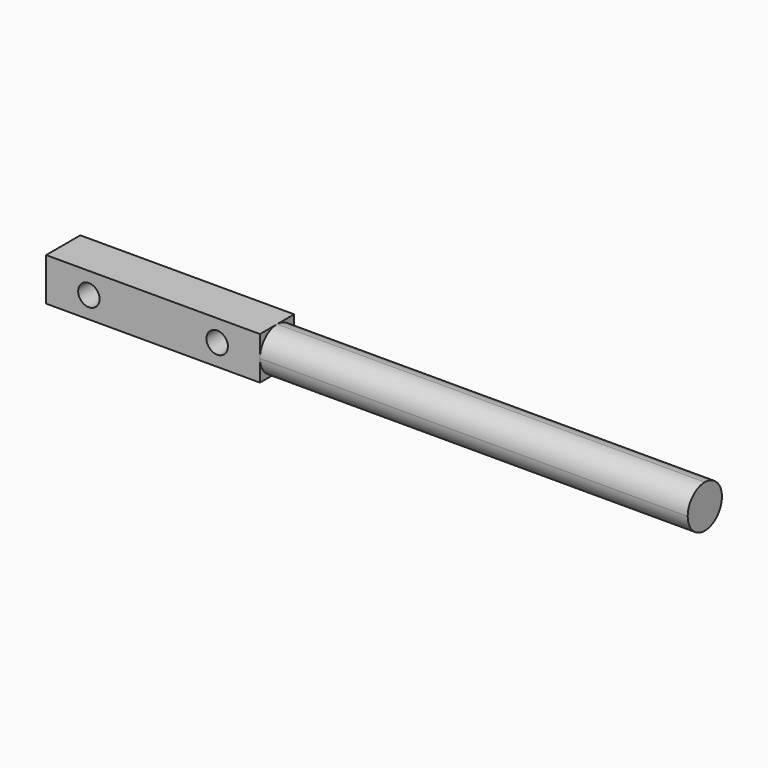
from build123d import *

# Parameters (mm, degrees)
F0_W     = 5
F0_H     = 5
F1_DEPTH = 25
F3_DEPTH = 50
F4_R     = 1.25
F5_DEPTH = 25


with BuildPart() as f1:
    # F0 (on Right) → F1 (new body)
    with BuildSketch(Plane.YZ):
        with Locations((2.5, 2.5)):
            Rectangle(F0_W, F0_H)
    extrude(amount=F1_DEPTH)

    # F2 (on face) → F3 (join)
    with BuildSketch(Plane.YZ.offset(25)):
        with BuildLine():
            ThreePointArc((2.5, 0), (4.267767, 0.732233), (5, 2.5))
            ThreePointArc((5, 2.5), (4.267767, 4.267767), (2.5, 5))
            ThreePointArc((2.5, 5), (0.732233, 4.267767), (0, 2.5))
            ThreePointArc((0, 2.5), (0.732233, 0.732233), (2.5, 0))
        make_face()
    extrude(amount=F3_DEPTH)

    # F4 (on face) → F5 (cut)
    with BuildSketch(Plane.XZ):
        with Locations((5, 2.5)):
            Circle(F4_R)
        with Locations((20, 2.5)):
            Circle(F4_R)
    extrude(amount=-F5_DEPTH, mode=Mode.SUBTRACT)


solid = f1.part
